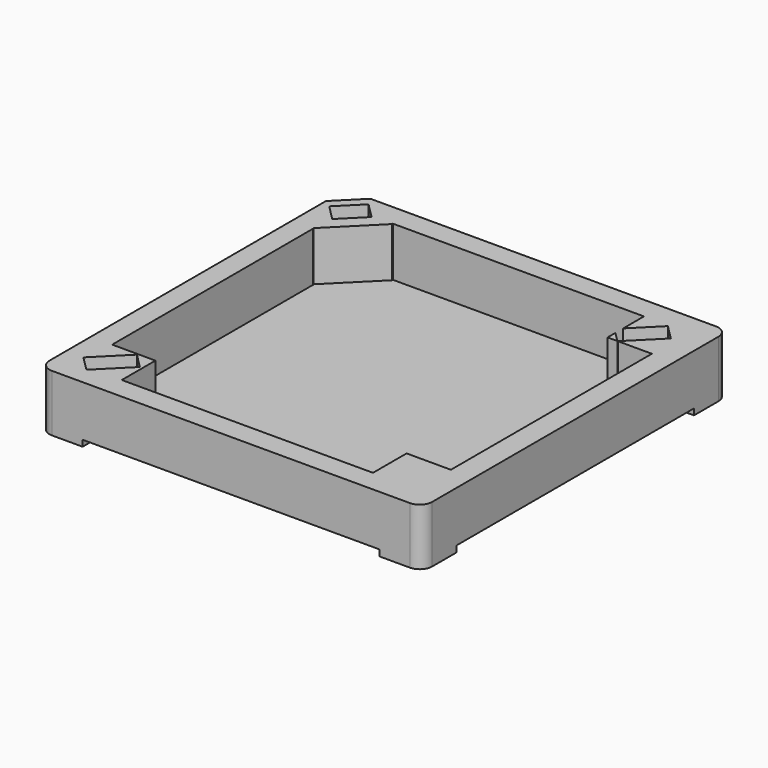
from build123d import *

# Parameters (mm, degrees)
BOX_W        = 30.95
BOX_H        = 30.95
BOX_DEPTH    = 4.6
BOX001_W     = 30.975
BOX001_H     = 24
BOX001_DEPTH = 0.5
BOX002_W     = 24
BOX002_H     = 30.975
BOX002_DEPTH = 0.5
BOX003_W     = 20.32
BOX003_H     = 27.4
BOX003_DEPTH = 4
CHAMFER_SIZE = 2
BOX004_W     = 2.5
BOX004_H     = 1.75
BOX004_DEPTH = 3
BOX005_W     = 27.4
BOX005_H     = 20.32
BOX005_DEPTH = 4
BOX006_W     = 5.1
BOX006_H     = 3.3
BOX006_DEPTH = 4
BOX007_W     = 3.4
BOX007_H     = 1.7
BOX007_DEPTH = 4.6
BOX008_W     = 3.4
BOX008_H     = 1.7
BOX008_DEPTH = 4.6
FILLET_R     = 1
FILLET001_R  = 1
FILLET002_R  = 1


with BuildPart() as part:
    # Box → Box (join)
    with BuildSketch(Plane(origin=(-15.475, -15.475, 0), x_dir=(1, 0, 0), z_dir=(0, 0, 1))):
        with Locations((15.475, 15.475)):
            Rectangle(BOX_W, BOX_H)
    extrude(amount=BOX_DEPTH)

    # Box001 → Box001 (cut)
    with BuildSketch(Plane(origin=(-15.475, -12, 0), x_dir=(1, 0, 0), z_dir=(0, 0, 1))):
        with Locations((15.4875, 12)):
            Rectangle(BOX001_W, BOX001_H)
    extrude(amount=BOX001_DEPTH, mode=Mode.SUBTRACT)

    # Box002 → Box002 (cut)
    with BuildSketch(Plane(origin=(-12, -15.475, 0), x_dir=(1, 0, 0), z_dir=(0, 0, 1))):
        with Locations((12, 15.4875)):
            Rectangle(BOX002_W, BOX002_H)
    extrude(amount=BOX002_DEPTH, mode=Mode.SUBTRACT)

    # Box003 → Box003 (cut)
    with BuildSketch(Plane(origin=(-10.252, -13.7, 0.6), x_dir=(1, 0, 0), z_dir=(0, 0, 1))):
        with Locations((10.16, 13.7)):
            Rectangle(BOX003_W, BOX003_H)
    extrude(amount=BOX003_DEPTH, mode=Mode.SUBTRACT)

    # Chamfer
    chamfer_edges = [part.edges().sort_by_distance(p)[0] for p in [
        (-15.475, 15.475, 2.3),
    ]]
    chamfer(chamfer_edges, length=CHAMFER_SIZE)

    # Box004 → Box004 (cut)
    with BuildSketch(Plane(origin=(-13.625, 11.8, 2.5), x_dir=(0.707107, 0.707107, 0), z_dir=(0, 0, 1))):
        with Locations((1.25, 0.875)):
            Rectangle(BOX004_W, BOX004_H)
    extrude(amount=BOX004_DEPTH, mode=Mode.SUBTRACT)

    # Box005 → Box005 (cut)
    with BuildSketch(Plane(origin=(-13.75, -10.3, 0.6), x_dir=(1, 0, 0), z_dir=(0, 0, 1))):
        with Locations((13.7, 10.16)):
            Rectangle(BOX005_W, BOX005_H)
    extrude(amount=BOX005_DEPTH, mode=Mode.SUBTRACT)

    # Box006 → Box006 (cut)
    with BuildSketch(Plane(origin=(-11.45, 7.75, 0.6), x_dir=(0.707107, 0.707107, 0), z_dir=(0, 0, 1))):
        with Locations((2.55, 1.65)):
            Rectangle(BOX006_W, BOX006_H)
    extrude(amount=BOX006_DEPTH, mode=Mode.SUBTRACT)

    # Box007 → Box007 (cut)
    with BuildSketch(Plane(origin=(-12.875, -14, 0), x_dir=(0.707107, 0.707107, 0), z_dir=(0, 0, 1))):
        with Locations((1.7, 0.85)):
            Rectangle(BOX007_W, BOX007_H)
    extrude(amount=BOX007_DEPTH, mode=Mode.SUBTRACT)

    # Box008 → Box008 (cut)
    with BuildSketch(Plane(origin=(10.875, 10, 0), x_dir=(0.707107, 0.707107, 0), z_dir=(0, 0, 1))):
        with Locations((1.7, 0.85)):
            Rectangle(BOX008_W, BOX008_H)
    extrude(amount=BOX008_DEPTH, mode=Mode.SUBTRACT)

    # Fillet
    fillet_edges = [part.edges().sort_by_distance(p)[0] for p in [
        (-15.475, -15.475, 2.3),
    ]]
    fillet(fillet_edges, radius=FILLET_R)

    # Fillet001
    fillet001_edges = [part.edges().sort_by_distance(p)[0] for p in [
        (15.475, -15.475, 2.3),
    ]]
    fillet(fillet001_edges, radius=FILLET001_R)

    # Fillet002
    fillet002_edges = [part.edges().sort_by_distance(p)[0] for p in [
        (15.475, 15.475, 2.3),
    ]]
    fillet(fillet002_edges, radius=FILLET002_R)


solid = part.part
